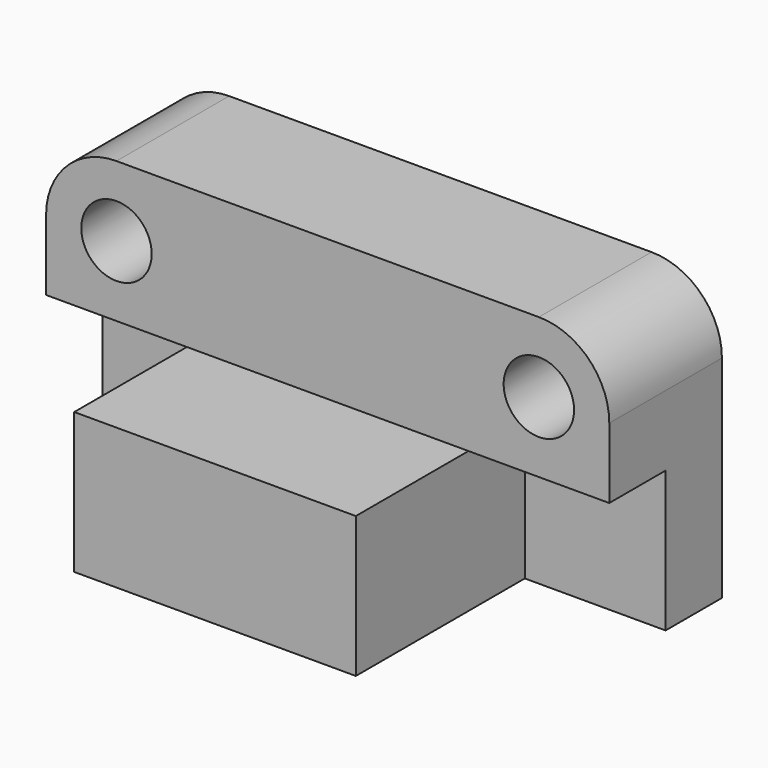
from build123d import *

# Parameters (mm, degrees)
F0_W      = 203.2
F0_H      = 101.6
F1_DEPTH  = 101.6
F3_W      = 76.2
F3_H      = 50.8
F4_DEPTH  = 50.8
F5_W      = 76.2
F5_H      = 50.8
F6_DEPTH  = 50.8
F2_W      = 203.2
F2_H      = 50.8
F7_DEPTH  = 50.8
F8_R      = 25.4
F9_R      = 12.7
F10_DEPTH = 50.801


with BuildPart() as f1:
    # F0 (on Top) → F1 (new body)
    with BuildSketch(Plane.XY):
        with Locations((-6.0499049723, 10.6239652866)):
            Rectangle(F0_W, F0_H)
    extrude(amount=F1_DEPTH)

    # F3 (on face) → F4 (cut)
    with BuildSketch(Plane.YZ.offset(95.5500950277)):
        with Locations((-2.0760347134, 25.4)):
            Rectangle(F3_W, F3_H)
    extrude(amount=-F4_DEPTH, mode=Mode.SUBTRACT)

    # F5 (on face) → F6 (cut)
    with BuildSketch(Plane(origin=(-107.6499049723, 0, 0), x_dir=(0, -1, 0), z_dir=(-1, 0, 0))):
        with Locations((2.0760347134, 25.4)):
            Rectangle(F5_W, F5_H)
    extrude(amount=-F6_DEPTH, mode=Mode.SUBTRACT)

    # F2 (on face) → F7 (cut)
    with BuildSketch(Plane.XZ.offset(40.1760347134)):
        with Locations((-6.0499049723, 76.2)):
            Rectangle(F2_W, F2_H)
    extrude(amount=-F7_DEPTH, mode=Mode.SUBTRACT)

    # F8
    f8_edges = [f1.edges().sort_by_distance(p)[0] for p in [
        (95.550095, 36.023965, 101.6),
        (-107.649905, 36.023965, 101.6),
    ]]
    fillet(f8_edges, radius=F8_R)

    # F9 (on face) → F10 (cut, through all)
    with BuildSketch(Plane.XZ.offset(-10.6239652866)):
        with Locations((-82.2499049723, 76.2)):
            Circle(F9_R)
        with Locations((70.1500950277, 76.2)):
            Circle(F9_R)
    extrude(amount=-F10_DEPTH, mode=Mode.SUBTRACT)


solid = f1.part
